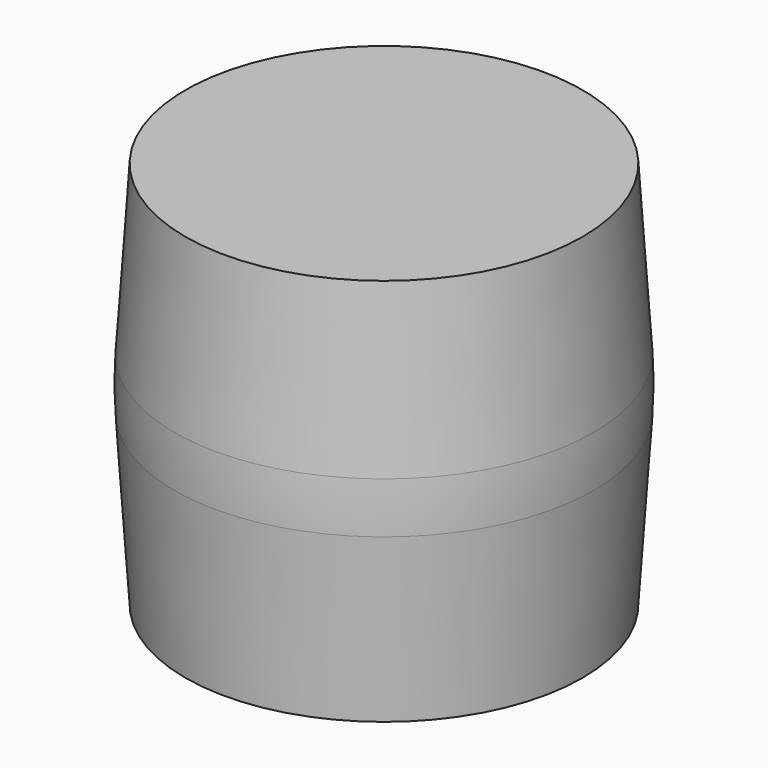
from build123d import *

# Parameters (mm, degrees)
F0_W = 85.95
F0_H = 168
F2_R = 168


with BuildPart() as f1:
    # F0 (on Front) → F1 (revolve)
    with BuildSketch(Plane.XZ):
        Polygon((85.95, 102.697539), (85.95, -65.302461), (91.483168, 18.697539), align=None)
        with Locations((42.975, 18.697539)):
            Rectangle(F0_W, F0_H)
    revolve(axis=Axis((0, 0, 18.697539), (0, 0, 1)))

    # F2
    f2_edges = [f1.edges().sort_by_distance(p)[0] for p in [
        (-91.483168, 0, 18.697539),
    ]]
    fillet(f2_edges, radius=F2_R)


solid = f1.part
